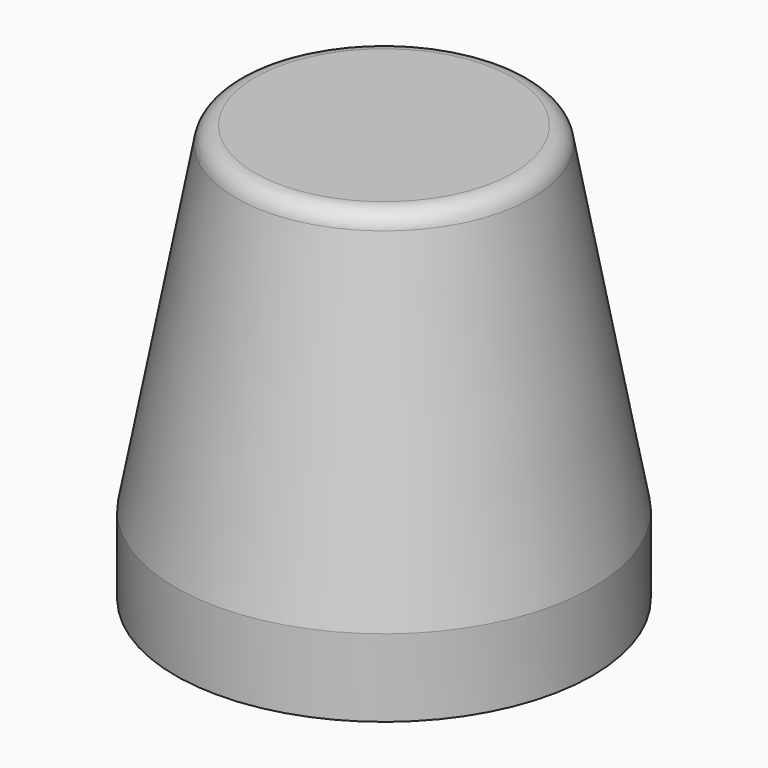
from build123d import *

# Parameters (mm, degrees)
F0_R      = 21.5
F1_DEPTH  = 8
F3_R      = 15
F1_FACE_R = 21.5
F6_D      = 6.8
F6_DEPTH  = 25
F6_TIP    = 2.0429261047
F7_R      = 2


with BuildPart() as f1:
    # F0 (on Top) → F1 (new body)
    with BuildSketch(Plane.XY):
        Circle(F0_R)
    extrude(amount=F1_DEPTH)

    # F3 (on offset) → F4 section 0
    with BuildSketch(Plane.XY.offset(43)):
        Circle(F3_R)
    # F1_face (on face) → F4 section 1
    with BuildSketch(Plane.XY.offset(8)):
        Circle(F1_FACE_R)
    loft()

    # F6
    with Locations(Plane(origin=(0, 0, 0), x_dir=(1, 0, 0), z_dir=(0, 0, -1))):
        with Locations((0, 0)):
            Hole(F6_D / 2, depth=F6_DEPTH)
            with Locations((0, 0, -(F6_DEPTH + F6_TIP / 2))):  # 118° drill point
                Cone(0, F6_D / 2, F6_TIP, mode=Mode.SUBTRACT)

    # F7
    f7_edges = [f1.edges().sort_by_distance(p)[0] for p in [
        (-15, 0, 43),
    ]]
    fillet(f7_edges, radius=F7_R)


solid = f1.part
